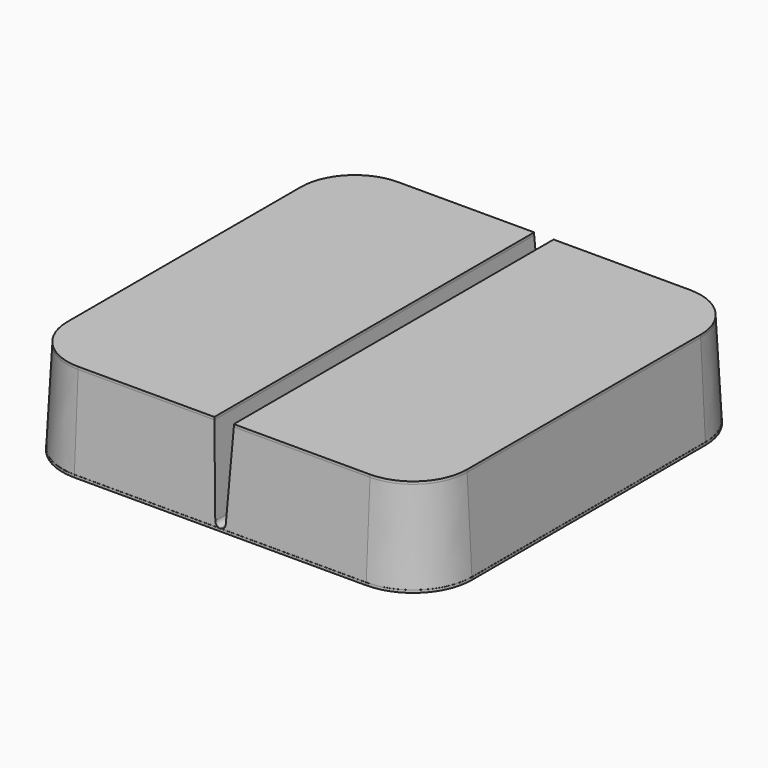
from build123d import *

# Parameters (mm, degrees)
F0_W     = 1.2
F0_H     = 1.2
F0_W_2   = 2.6
F0_H_2   = 107.6
F1_DEPTH = 0.7
F2_DEPTH = 25
F2_TAPER = 3
F3_DEPTH = 25
F3_TAPER = 3
F5_DEPTH = 0.7
F7_DEPTH = 0.7
F8_R     = 1.4


with BuildPart() as f1:
    # F0 (on Top) → F1 (new body)
    with BuildSketch(Plane.XY):
        with BuildLine():
            Line((-2.5, 55), (-39.2, 55))
            ThreePointArc((-39.2, 55), (-50.3722871427, 50.3722871427), (-55, 39.2))
            Line((-55, 39.2), (-55, -39.2))
            ThreePointArc((-55, -39.2), (-50.3722871427, -50.3722871427), (-39.2, -55))
            Line((-39.2, -55), (-2.5, -55))
            Line((-2.5, -55), (-2.5, -53.8))
            Line((-2.5, -53.8), (-38.8, -53.8))
            ThreePointArc((-38.8, -53.8), (-49.4066017178, -49.4066017178), (-53.8, -38.8))
            Line((-53.8, -38.8), (-53.8, 38.8))
            ThreePointArc((-53.8, 38.8), (-49.4066017178, 49.4066017178), (-38.8, 53.8))
            Line((-38.8, 53.8), (-2.5, 53.8))
            Line((-2.5, 53.8), (-2.5, 55))
        make_face()
        with Locations((-1.9, 54.4)):
            Rectangle(F0_W, F0_H)
        with Locations((0, 54.4)):
            Rectangle(F0_W_2, F0_H)
        with Locations((1.9, 54.4)):
            Rectangle(F0_W, F0_H)
        with BuildLine():
            Line((39.2, 55), (2.5, 55))
            Line((2.5, 55), (2.5, 53.8))
            Line((2.5, 53.8), (38.8, 53.8))
            ThreePointArc((38.8, 53.8), (49.4066017178, 49.4066017178), (53.8, 38.8))
            Line((53.8, 38.8), (53.8, -38.8))
            ThreePointArc((53.8, -38.8), (49.4066017178, -49.4066017178), (38.8, -53.8))
            Line((38.8, -53.8), (2.5, -53.8))
            Line((2.5, -53.8), (2.5, -55))
            Line((2.5, -55), (39.2, -55))
            ThreePointArc((39.2, -55), (50.3722871427, -50.3722871427), (55, -39.2))
            Line((55, -39.2), (55, 39.2))
            ThreePointArc((55, 39.2), (50.3722871427, 50.3722871427), (39.2, 55))
        make_face()
        with Locations((-1.9, -54.4)):
            Rectangle(F0_W, F0_H)
        with Locations((-1.9, 0)):
            Rectangle(F0_W, F0_H_2)
        with Locations((-1.9, 54.4)):
            Rectangle(F0_W, F0_H)
        with Locations((1.9, 0)):
            Rectangle(F0_W, F0_H_2)
        with Locations((0, -54.4)):
            Rectangle(F0_W_2, F0_H)
        Rectangle(F0_W_2, F0_H_2)
        with Locations((0, 54.4)):
            Rectangle(F0_W_2, F0_H)
        with Locations((1.9, -54.4)):
            Rectangle(F0_W, F0_H)
        with BuildLine():
            Line((39.2, 55), (2.5, 55))
            Line((2.5, 55), (2.5, 53.8))
            Line((2.5, 53.8), (38.8, 53.8))
            ThreePointArc((38.8, 53.8), (49.4066017178, 49.4066017178), (53.8, 38.8))
            Line((53.8, 38.8), (53.8, -38.8))
            ThreePointArc((53.8, -38.8), (49.4066017178, -49.4066017178), (38.8, -53.8))
            Line((38.8, -53.8), (2.5, -53.8))
            Line((2.5, -53.8), (2.5, -55))
            Line((2.5, -55), (39.2, -55))
            ThreePointArc((39.2, -55), (50.3722871427, -50.3722871427), (55, -39.2))
            Line((55, -39.2), (55, 39.2))
            ThreePointArc((55, 39.2), (50.3722871427, 50.3722871427), (39.2, 55))
        make_face()
        with BuildLine():
            Line((-2.5, 55), (-39.2, 55))
            ThreePointArc((-39.2, 55), (-50.3722871427, 50.3722871427), (-55, 39.2))
            Line((-55, 39.2), (-55, -39.2))
            ThreePointArc((-55, -39.2), (-50.3722871427, -50.3722871427), (-39.2, -55))
            Line((-39.2, -55), (-2.5, -55))
            Line((-2.5, -55), (-2.5, -53.8))
            Line((-2.5, -53.8), (-38.8, -53.8))
            ThreePointArc((-38.8, -53.8), (-49.4066017178, -49.4066017178), (-53.8, -38.8))
            Line((-53.8, -38.8), (-53.8, 38.8))
            ThreePointArc((-53.8, 38.8), (-49.4066017178, 49.4066017178), (-38.8, 53.8))
            Line((-38.8, 53.8), (-2.5, 53.8))
            Line((-2.5, 53.8), (-2.5, 55))
        make_face()
    extrude(amount=F1_DEPTH)

    # F0 (on Top) → F2 (join)
    with BuildSketch(Plane.XY):
        with Locations((1.9, 54.4)):
            Rectangle(F0_W, F0_H)
        with Locations((1.9, -54.4)):
            Rectangle(F0_W, F0_H)
        with Locations((1.9, 0)):
            Rectangle(F0_W, F0_H_2)
        with BuildLine():
            Line((39.2, 55), (2.5, 55))
            Line((2.5, 55), (2.5, 53.8))
            Line((2.5, 53.8), (38.8, 53.8))
            ThreePointArc((38.8, 53.8), (49.4066017178, 49.4066017178), (53.8, 38.8))
            Line((53.8, 38.8), (53.8, -38.8))
            ThreePointArc((53.8, -38.8), (49.4066017178, -49.4066017178), (38.8, -53.8))
            Line((38.8, -53.8), (2.5, -53.8))
            Line((2.5, -53.8), (2.5, -55))
            Line((2.5, -55), (39.2, -55))
            ThreePointArc((39.2, -55), (50.3722871427, -50.3722871427), (55, -39.2))
            Line((55, -39.2), (55, 39.2))
            ThreePointArc((55, 39.2), (50.3722871427, 50.3722871427), (39.2, 55))
        make_face()
        with BuildLine():
            Line((38.8, 53.8), (2.5, 53.8))
            Line((2.5, 53.8), (2.5, -53.8))
            Line((2.5, -53.8), (38.8, -53.8))
            ThreePointArc((38.8, -53.8), (49.4066017178, -49.4066017178), (53.8, -38.8))
            Line((53.8, -38.8), (53.8, 38.8))
            ThreePointArc((53.8, 38.8), (49.4066017178, 49.4066017178), (38.8, 53.8))
        make_face()
        with Locations((-1.9, 0)):
            Rectangle(F0_W, F0_H_2)
        with Locations((-1.9, -54.4)):
            Rectangle(F0_W, F0_H)
        with BuildLine():
            Line((-2.5, 55), (-39.2, 55))
            ThreePointArc((-39.2, 55), (-50.3722871427, 50.3722871427), (-55, 39.2))
            Line((-55, 39.2), (-55, -39.2))
            ThreePointArc((-55, -39.2), (-50.3722871427, -50.3722871427), (-39.2, -55))
            Line((-39.2, -55), (-2.5, -55))
            Line((-2.5, -55), (-2.5, -53.8))
            Line((-2.5, -53.8), (-38.8, -53.8))
            ThreePointArc((-38.8, -53.8), (-49.4066017178, -49.4066017178), (-53.8, -38.8))
            Line((-53.8, -38.8), (-53.8, 38.8))
            ThreePointArc((-53.8, 38.8), (-49.4066017178, 49.4066017178), (-38.8, 53.8))
            Line((-38.8, 53.8), (-2.5, 53.8))
            Line((-2.5, 53.8), (-2.5, 55))
        make_face()
        with Locations((-1.9, 54.4)):
            Rectangle(F0_W, F0_H)
        with BuildLine():
            Line((-2.5, -53.8), (-2.5, 53.8))
            Line((-2.5, 53.8), (-38.8, 53.8))
            ThreePointArc((-38.8, 53.8), (-49.4066017178, 49.4066017178), (-53.8, 38.8))
            Line((-53.8, 38.8), (-53.8, -38.8))
            ThreePointArc((-53.8, -38.8), (-49.4066017178, -49.4066017178), (-38.8, -53.8))
            Line((-38.8, -53.8), (-2.5, -53.8))
        make_face()
    extrude(amount=F2_DEPTH, taper=F2_TAPER)

    # F0 (on Top) → F3 (cut)
    with BuildSketch(Plane.XY):
        with BuildLine():
            Line((-2.5, -53.8), (-2.5, 53.8))
            Line((-2.5, 53.8), (-38.8, 53.8))
            ThreePointArc((-38.8, 53.8), (-49.4066017178, 49.4066017178), (-53.8, 38.8))
            Line((-53.8, 38.8), (-53.8, -38.8))
            ThreePointArc((-53.8, -38.8), (-49.4066017178, -49.4066017178), (-38.8, -53.8))
            Line((-38.8, -53.8), (-2.5, -53.8))
        make_face()
        with BuildLine():
            Line((38.8, 53.8), (2.5, 53.8))
            Line((2.5, 53.8), (2.5, -53.8))
            Line((2.5, -53.8), (38.8, -53.8))
            ThreePointArc((38.8, -53.8), (49.4066017178, -49.4066017178), (53.8, -38.8))
            Line((53.8, -38.8), (53.8, 38.8))
            ThreePointArc((53.8, 38.8), (49.4066017178, 49.4066017178), (38.8, 53.8))
        make_face()
    extrude(amount=F3_DEPTH, taper=F3_TAPER, mode=Mode.SUBTRACT)

    # F4 (on face) → F5 (join)
    with BuildSketch(Plane.XY.offset(25)):
        with BuildLine():
            Line((39.2, 53.6898055179), (2.6101944821, 53.6898055179))
            Line((2.6101944821, 53.6898055179), (2.6101944821, -53.6898055179))
            Line((2.6101944821, -53.6898055179), (39.2, -53.6898055179))
            ThreePointArc((39.2, -53.6898055179), (49.4458397398, -49.4458397398), (53.6898055179, -39.2))
            Line((53.6898055179, -39.2), (53.6898055179, 39.2))
            ThreePointArc((53.6898055179, 39.2), (49.4458397398, 49.4458397398), (39.2, 53.6898055179))
        make_face()
    extrude(amount=F5_DEPTH)

    # F6 (on face) → F7 (join)
    with BuildSketch(Plane.XY.offset(25)):
        with BuildLine():
            Line((-39.2, -53.6898055179), (-2.6101944821, -53.6898055179))
            Line((-2.6101944821, -53.6898055179), (-2.6101944821, 53.6898055179))
            Line((-2.6101944821, 53.6898055179), (-39.2, 53.6898055179))
            ThreePointArc((-39.2, 53.6898055179), (-49.4458397398, 49.4458397398), (-53.6898055179, 39.2))
            Line((-53.6898055179, 39.2), (-53.6898055179, -39.2))
            ThreePointArc((-53.6898055179, -39.2), (-49.4458397398, -49.4458397398), (-39.2, -53.6898055179))
        make_face()
    extrude(amount=F7_DEPTH)

    # F8
    f8_edges = [f1.edges().sort_by_distance(p)[0] for p in [
        (1.336685, 0, 0.7),
        (-1.336685, 0, 0.7),
    ]]
    fillet(f8_edges, radius=F8_R)


solid = f1.part
